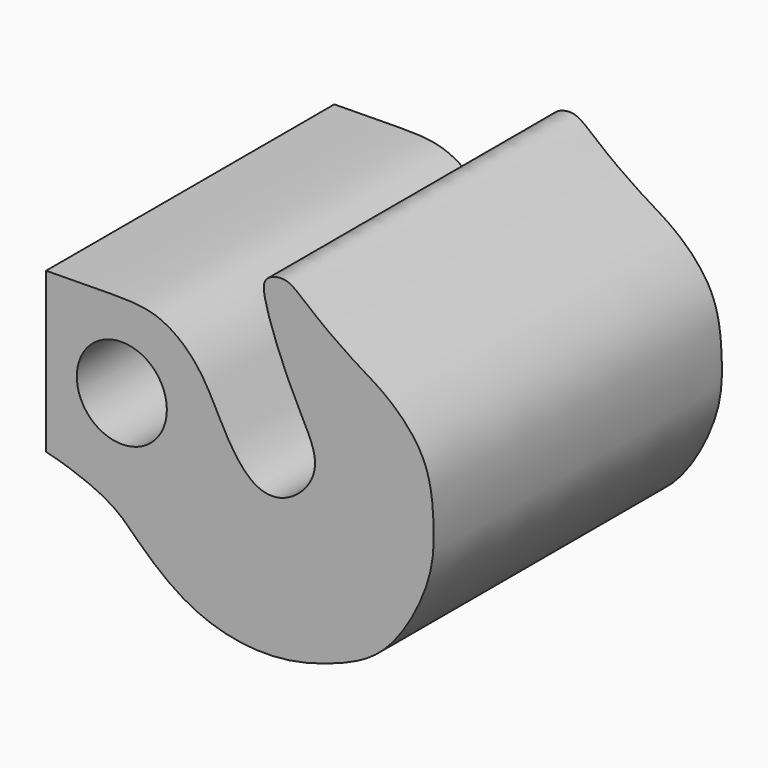
from build123d import *

# Parameters (mm, degrees)
F0_R     = 0.7094560546
F0_R_2   = 0.5
F1_DEPTH = 4


with BuildPart() as f1:
    # F0 (on Front) → F1 (new body)
    with BuildSketch(Plane.XZ):
        with BuildLine():
            add(Edge.make_bspline(
                [(-4.4306910748, 2.9475490386), (-4.3491435639, 2.9476718808), (-3.705049028, 2.958519871), (-3.1680169177, 2.9577054221), (-2.6851131981, 2.5558288019), (-2.4482182523, 1.9718276397), (-2.1260332944, 1.5539071519), (-1.7690293676, 1.5478375808), (-1.4820411302, 1.7970291772), (-1.4014552491, 2.1328583364), (-1.700186104, 2.6083877166), (-2.0402290563, 3.4742932446), (-2.0032086877, 3.6849842917), (-1.8016742517, 3.7436369482), (-1.6502426097, 3.667692441), (-1.3973762605, 3.4368590671), (-0.9634767019, 3.1405726412), (-0.6156792117, 2.9485126864), (-0.1753774965, 2.5002182363), (-0.1170668717, 1.8616584461), (-0.130977876, 1.2911124545), (-0.5890203884, 0.436239718), (-1.1804411227, 0.147902814), (-1.9098530558, -0.0624928493), (-2.7861810849, 0.0868081216), (-3.3981807411, 0.6082116618), (-3.6755541685, 0.927794881), (-4.1547214095, 1.1094963724), (-4.4306910748, 1.177585282)],
                knots=[0.0004805039, 0.0004805039, 0.0004805039, 0.0004805039, 0.0436920299, 0.0847783499, 0.1249113744, 0.1678677169, 0.2052424642, 0.2347398356, 0.2663730429, 0.2953473616, 0.3358971735, 0.3873722466, 0.4093550564, 0.4314088229, 0.452601991, 0.483706693, 0.5223861616, 0.5565032475, 0.5974708227, 0.6392074293, 0.6798401691, 0.7308121841, 0.7736615434, 0.8194648044, 0.869365703, 0.916064007, 0.9510294396, 0.9962063842, 0.9962063842, 0.9962063842, 0.9962063842], degree=3))
            Line((-4.4306910748, 2.9475490386), (-4.4306910748, 1.177585282))
        make_face()
        with Locations((-3.5896868685, 2.024792233)):
            Circle(F0_R, mode=Mode.SUBTRACT)
        with Locations((-3.5896868685, 2.024792233)):
            Circle(F0_R)
        with Locations((-3.5896868685, 2.024792233)):
            Circle(F0_R_2, mode=Mode.SUBTRACT)
    extrude(amount=F1_DEPTH)


solid = f1.part
